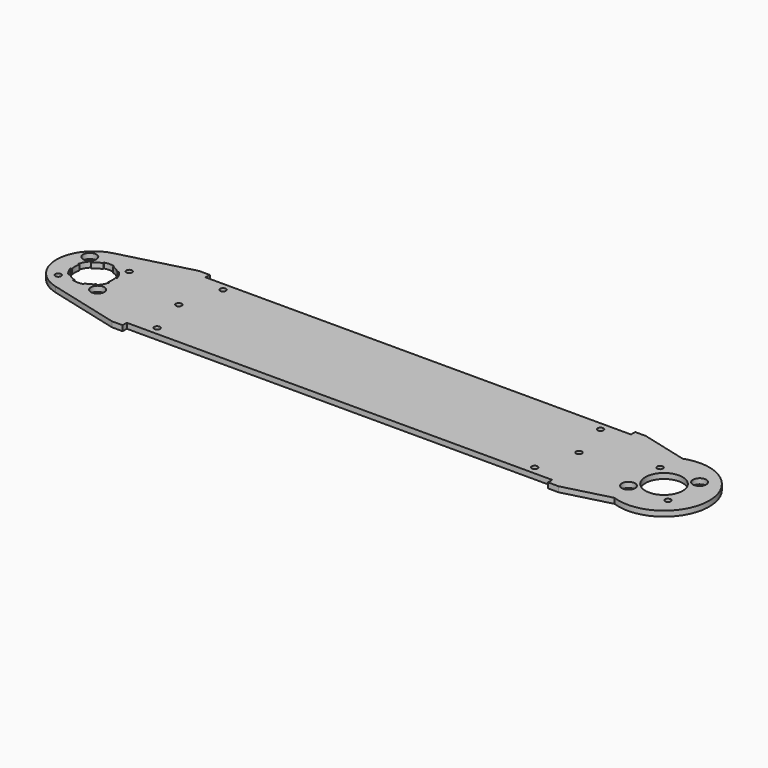
from build123d import *

# Parameters (mm, degrees)
F0_R     = 1.7272
F0_R_2   = 3.96875
F0_R_3   = 11.1125
F1_DEPTH = 3.175
F3_DEPTH = 3.175
F4_COUNT = 6
F4_ANGLE = 300


with BuildPart() as f1:
    # F0 (on Top) → F1 (new body)
    with BuildSketch(Plane.XY):
        with BuildLine():
            Line((-303.6125627, 32.54375), (-346.1094200534, 21.5120031198))
            ThreePointArc((-346.1094200534, 21.5120031198), (-362.7501254, 0), (-346.1094200534, -21.5120031198))
            Line((-346.1094200534, -21.5120031198), (-303.6125627, -32.54375))
            Line((-303.6125627, -32.54375), (-297.2625627, -32.54375))
            Line((-297.2625627, -32.54375), (-297.2625627, -29.36875))
            Line((-297.2625627, -29.36875), (-43.2625627, -29.36875))
            Line((-43.2625627, -29.36875), (-43.2625627, -32.54375))
            Line((-43.2625627, -32.54375), (-36.9125627, -32.54375))
            Line((-36.9125627, -32.54375), (-9.2338657221, -25.3586450757))
            ThreePointArc((-9.2338657221, -25.3586450757), (26.9875, 0), (-9.2338657221, 25.3586450757))
            Line((-9.2338657221, 25.3586450757), (-36.9125627, 32.54375))
            Line((-36.9125627, 32.54375), (-43.2625627, 32.54375))
            Line((-43.2625627, 32.54375), (-43.2625627, 29.36875))
            Line((-43.2625627, 29.36875), (-297.2625627, 29.36875))
            Line((-297.2625627, 29.36875), (-297.2625627, 32.54375))
            Line((-297.2625627, 32.54375), (-303.6125627, 32.54375))
        make_face()
        with Locations((-282.9750627, -24.60625)):
            Circle(F0_R, mode=Mode.SUBTRACT)
        with Locations((-352.3117115589, -11.7865861589)):
            Circle(F0_R, mode=Mode.SUBTRACT)
        with Locations((-328.7385392411, -11.7865861589)):
            Circle(F0_R_2, mode=Mode.SUBTRACT)
        with Locations((-57.5500627, -24.60625)):
            Circle(F0_R, mode=Mode.SUBTRACT)
        with Locations((-11.7865861589, -11.7865861589)):
            Circle(F0_R_2, mode=Mode.SUBTRACT)
        with Locations((11.7865861589, -11.7865861589)):
            Circle(F0_R, mode=Mode.SUBTRACT)
        with Locations((-340.5251254, 0)):
            Circle(F0_R_3, mode=Mode.SUBTRACT)
        with Locations((-289.7251254, 0)):
            Circle(F0_R, mode=Mode.SUBTRACT)
        with Locations((-352.3117115589, 11.7865861589)):
            Circle(F0_R_2, mode=Mode.SUBTRACT)
        with Locations((-328.7385392411, 11.7865861589)):
            Circle(F0_R, mode=Mode.SUBTRACT)
        with Locations((-282.9750627, 24.60625)):
            Circle(F0_R, mode=Mode.SUBTRACT)
        with Locations((-50.8, 0)):
            Circle(F0_R, mode=Mode.SUBTRACT)
        Circle(F0_R_3, mode=Mode.SUBTRACT)
        with Locations((-11.7865861589, 11.7865861589)):
            Circle(F0_R, mode=Mode.SUBTRACT)
        with Locations((11.7865861589, 11.7865861589)):
            Circle(F0_R_2, mode=Mode.SUBTRACT)
        with Locations((-57.5500627, 24.60625)):
            Circle(F0_R, mode=Mode.SUBTRACT)
    extrude(amount=F1_DEPTH)

    # F2 (on face) → F3 (cut, through all)
    with BuildSketch(Plane(origin=(0, 0, 0), x_dir=(1, 0, 0), z_dir=(0, 0, -1))):
        with BuildLine():
            ThreePointArc((-348.3828495059, -7.8577241059), (-350.1488326996, -5.55625), (-351.2589761446, -2.8761266387))
            Line((-351.2589761446, -2.8761266387), (-352.0256797693, -3.0815642558))
            ThreePointArc((-352.0256797693, -3.0815642558), (-350.8362403638, -5.953125), (-348.9441155135, -8.4189901135))
            Line((-348.9441155135, -8.4189901135), (-348.3828495059, -7.8577241059))
        make_face()
    f3 = extrude(amount=-F3_DEPTH, mode=Mode.SUBTRACT)

    # F4: F3 ×6 about axis
    f4_axis = Axis((-340.5251254, 0, 0), (0, 0, -1))
    for i in range(1, F4_COUNT):
        add(f3.rotate(f4_axis, i * F4_ANGLE / (F4_COUNT - 1)), mode=Mode.SUBTRACT)


solid = f1.part
